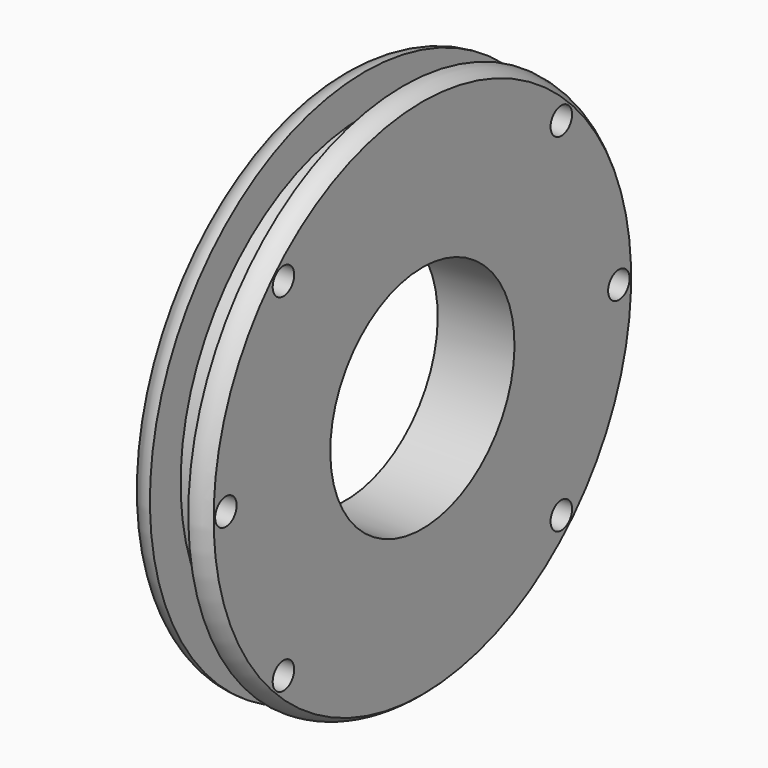
from build123d import *

# Parameters (mm, degrees)
F3_D     = 3.5
F3_DEPTH = 12
F3_TIP   = 1.0515060833


with BuildPart() as f2:
    # F0 (on Front) → F2 (revolve)
    with BuildSketch(Plane.XZ):
        with BuildLine():
            Line((-5, 15), (0, 15))
            Line((0, 15), (0, 30))
            Line((0, 30), (-2.5, 30))
            Line((-2.5, 30), (-2.5, 35.000897944))
            ThreePointArc((-2.5, 35.000897944), (-3.8464580103, 34.7413776573), (-5, 34))
            Line((-5, 34), (-5, 30))
            Line((-5, 30), (-5, 20))
            Line((-5, 20), (-5, 15))
        make_face()
        with BuildLine():
            Line((0, 30), (0, 15))
            Line((0, 15), (5, 15))
            Line((5, 15), (5, 20))
            Line((5, 20), (5, 30))
            Line((5, 30), (5, 34))
            ThreePointArc((5, 34), (3.8464580103, 34.7413776573), (2.5, 35.000897944))
            Line((2.5, 35.000897944), (2.5, 30))
            Line((2.5, 30), (0, 30))
        make_face()
    revolve(axis=Axis((0, 0, 0), (1, 0, 0)))

    # F3 (one way)
    with BuildSketch(Plane(origin=(0, 0, 0), x_dir=(0, 1, 0), z_dir=(-1, 0, 0))):
        with Locations((-22.627416998, -22.627416998), (22.627416998, -22.627416998), (32, 0), (22.627416998, 22.627416998), (-22.627416998, 22.627416998), (-32, 0)):
            Circle(F3_D / 2)
    extrude(amount=-F3_DEPTH, mode=Mode.SUBTRACT)
    with Locations(Plane(origin=(0, 0, 0), x_dir=(0, 1, 0), z_dir=(-1, 0, 0))):
        with Locations((-22.627416998, -22.627416998), (22.627416998, -22.627416998), (32, 0), (22.627416998, 22.627416998), (-22.627416998, 22.627416998), (-32, 0)):
            with Locations((0, 0, -(F3_DEPTH + F3_TIP / 2))):  # 118° drill point
                Cone(0, F3_D / 2, F3_TIP, mode=Mode.SUBTRACT)


solid = f2.part
